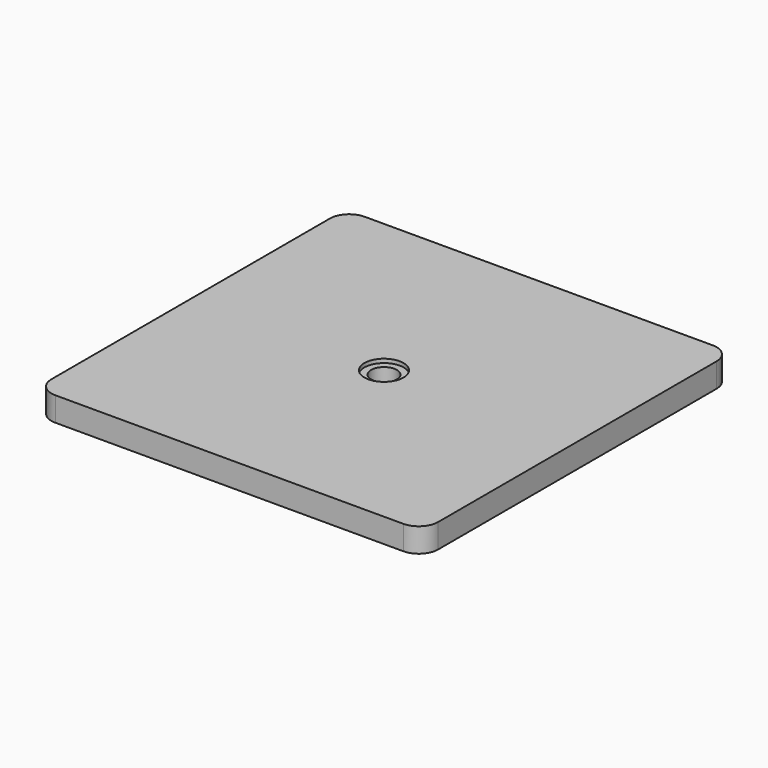
from build123d import *

# Parameters (mm, degrees)
F0_W     = 50.8
F0_H     = 50.8
F1_DEPTH = 1.5875
F4_R     = 2.54


with BuildPart() as f1:
    # F0 (on Top) → F1 (new body, symmetric)
    with BuildSketch(Plane.XY):
        Rectangle(F0_W, F0_H)
    extrude(amount=F1_DEPTH, both=True)

    # F2 (on Front) → F3 (revolve, cut)
    with BuildSketch(Plane.XZ):
        Polygon((2.5781, 1.5875), (0, 1.5875), (0, -1.5875), (1.6891, -1.5875), (1.6891, 1.0795), (2.5781, 1.0795), align=None)
    revolve(axis=Axis((0, 0, 3.175), (0, 0, 1)), mode=Mode.SUBTRACT)

    # F4
    f4_edges = [f1.edges().sort_by_distance(p)[0] for p in [
        (-25.4, -25.4, 0),
        (25.4, -25.4, 0),
        (25.4, 25.4, 0),
        (-25.4, 25.4, 0),
    ]]
    fillet(f4_edges, radius=F4_R)


solid = f1.part
